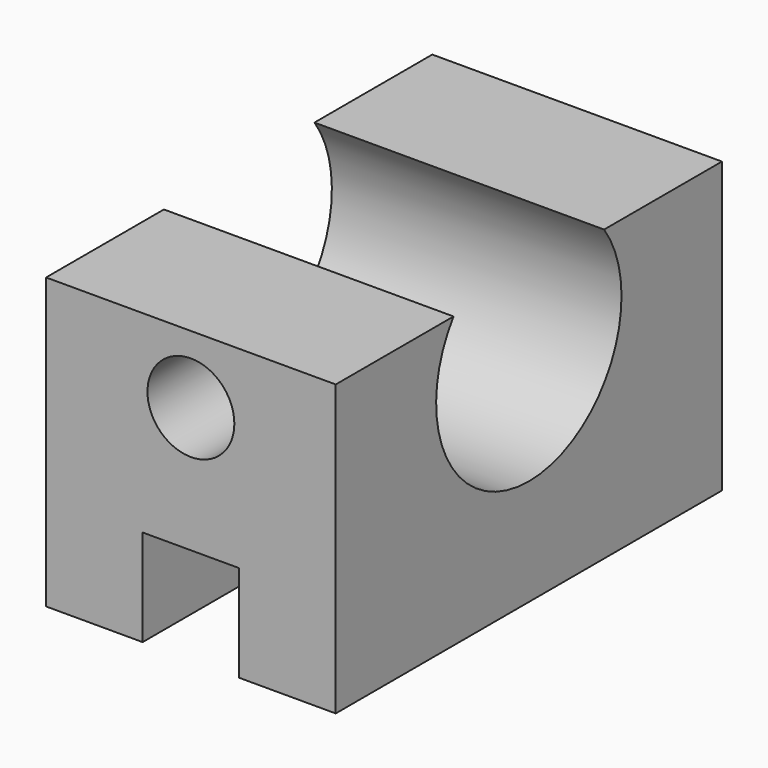
from build123d import *

# Parameters (mm, degrees)
F0_W     = 15
F0_H     = 15
F1_DEPTH = 25
F2_W     = 5
F2_H     = 5
F3_DEPTH = 25
F5_D     = 12
F6_R     = 1.6830383024
F7_DEPTH = 5
F8_R     = 2.25
F9_DEPTH = 6.9388512347


with BuildPart() as f1:
    # F0 (on Front) → F1 (new body)
    with BuildSketch(Plane.XZ):
        Rectangle(F0_W, F0_H)
    extrude(amount=F1_DEPTH)

    # F2 (on face) → F3 (cut)
    with BuildSketch(Plane.XZ.offset(25)):
        with Locations((0, -5)):
            Rectangle(F2_W, F2_H)
    extrude(amount=-F3_DEPTH, mode=Mode.SUBTRACT)

    # F5 (through all)
    with Locations(Plane(origin=(-7.5, 0, 0), x_dir=(0, -1, 0), z_dir=(-1, 0, 0))):
        with Locations((12.5, 4)):
            Hole(F5_D / 2)

    # F6 (on face) → F7 (join)
    with BuildSketch(Plane(origin=(-7.5, 0, 0), x_dir=(0, -1, 0), z_dir=(-1, 0, 0))):
        with Locations((12.5, -5.3153163753)):
            Circle(F6_R)
    extrude(amount=F7_DEPTH)

    # F8 (on face) → F9 (cut, through all)
    with BuildSketch(Plane.XZ.offset(25)):
        with Locations((0, 4)):
            Circle(F8_R)
    extrude(amount=-F9_DEPTH, mode=Mode.SUBTRACT)


solid = f1.part
